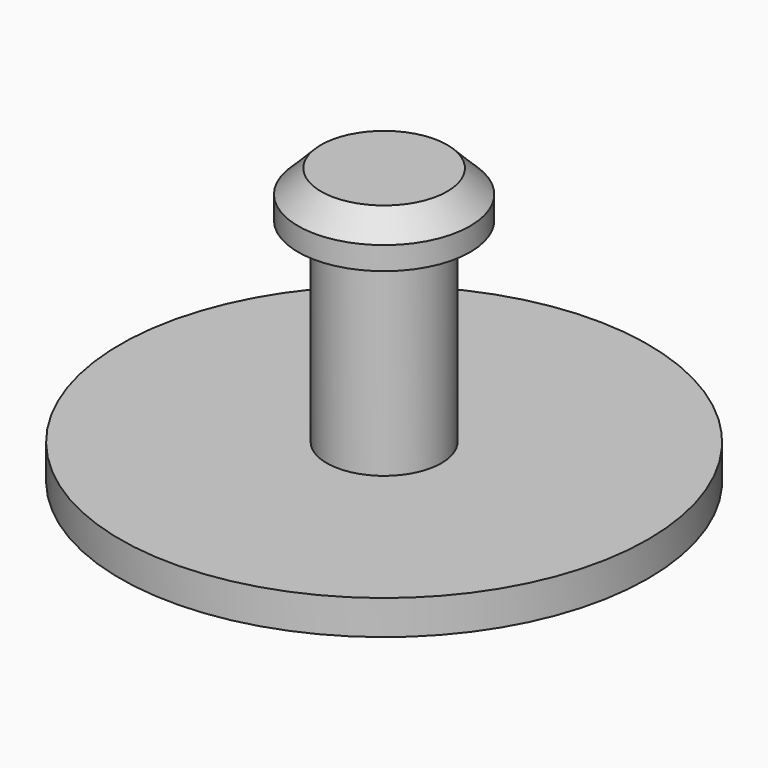
from build123d import *

# Parameters (mm, degrees)
CYLINDER_R        = 2.3
CYLINDER_DEPTH    = 0.3
CYLINDER001_R     = 0.5
CYLINDER001_DEPTH = 2
CYLINDER002_R     = 0.75
CYLINDER002_DEPTH = 0.4
CHAMFER_SIZE      = 0.2


with BuildPart() as part:
    # Cylinder → Cylinder (join)
    with BuildSketch(Plane.XY):
        Circle(CYLINDER_R)
    extrude(amount=CYLINDER_DEPTH)

    # Cylinder001 → Cylinder001 (join)
    with BuildSketch(Plane.XY):
        Circle(CYLINDER001_R)
    extrude(amount=CYLINDER001_DEPTH)

    # Cylinder002 → Cylinder002 (join)
    with BuildSketch(Plane.XY.offset(2)):
        Circle(CYLINDER002_R)
    extrude(amount=CYLINDER002_DEPTH)

    # Chamfer
    chamfer_edges = [part.edges().sort_by_distance(p)[0] for p in [
        (-0.75, 0, 2.4),
    ]]
    chamfer(chamfer_edges, length=CHAMFER_SIZE)


solid = part.part
